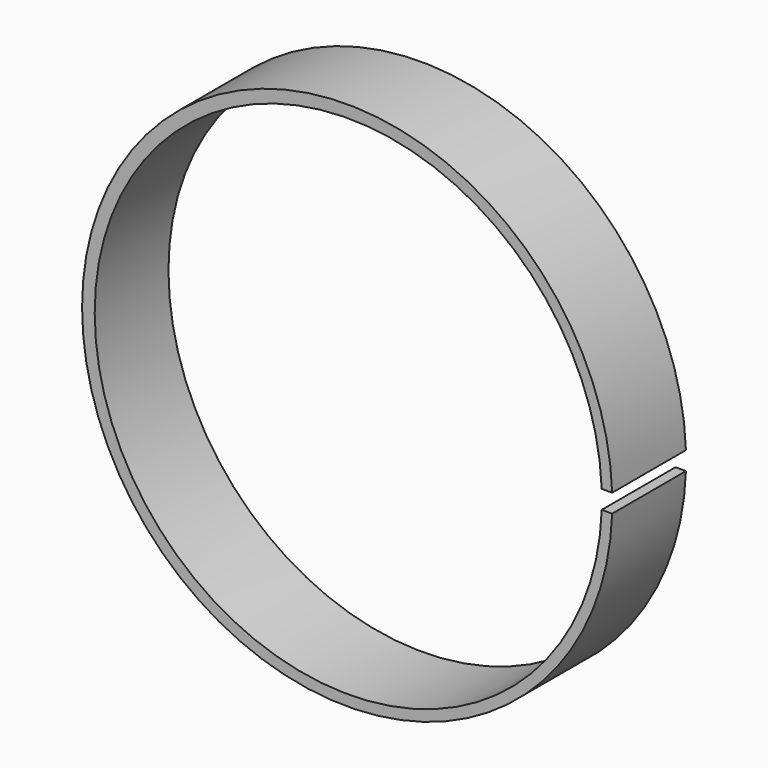
from build123d import *

# Parameters (mm, degrees)
SKETCH002_R     = 57.5
PAD002_DEPTH    = 20
SKETCH003_R     = 55
POCKET_DEPTH    = 25
SKETCH004_W     = 65.896674
SKETCH004_H     = 4
POCKET001_DEPTH = 21


with BuildPart() as part:
    # Sketch002 → Pad002 (new body)
    with BuildSketch(Plane.XZ):
        Circle(SKETCH002_R)
    extrude(amount=PAD002_DEPTH)

    # Sketch003 (on Face3 of Pad002) → Pocket (cut)
    with BuildSketch(Plane.XZ.offset(20)):
        with Locations((0.237796, -0.12528)):
            Circle(SKETCH003_R)
    extrude(amount=-POCKET_DEPTH, mode=Mode.SUBTRACT)

    # Sketch004 (on Face3 of Pocket) → Pocket001 (cut)
    with BuildSketch(Plane.XZ.offset(20)):
        with Locations((32.948337, 0)):
            Rectangle(SKETCH004_W, SKETCH004_H)
    extrude(amount=-POCKET001_DEPTH, mode=Mode.SUBTRACT)


with BuildPart() as part_1:
    # Body001 placement: moved
    add(part.part.moved(Location((0, -2, 0))))


solid = part_1.part
